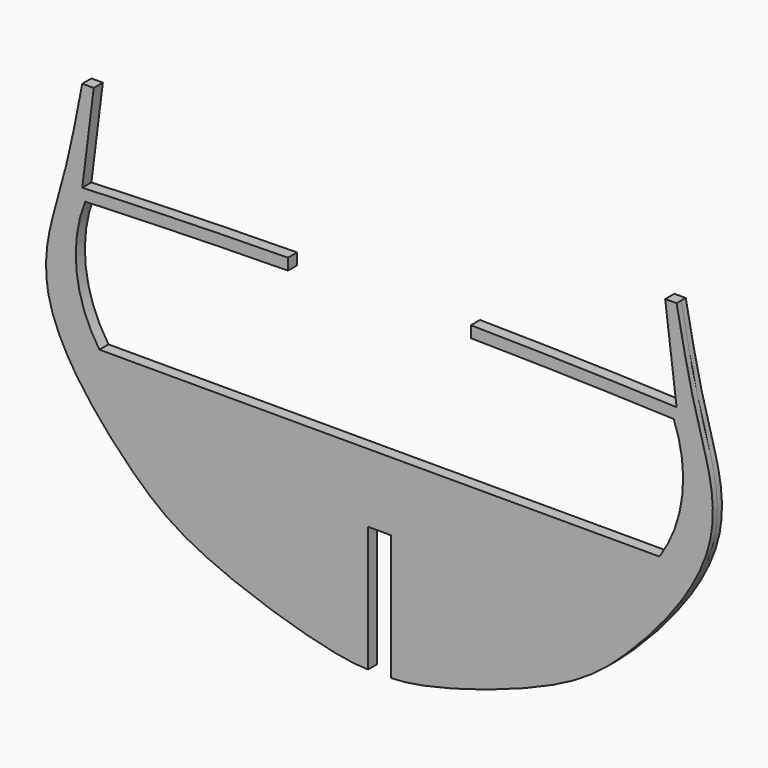
from build123d import *

# Parameters (mm, degrees)
F1_DEPTH = 1.5875
F3_DEPTH = 3.1760001


with BuildPart() as f1:
    # F0 (on Front) → F1 (new body, symmetric)
    with BuildSketch(Plane.XZ):
        with BuildLine():
            add(Edge.make_bspline(
                [(-3.175, -53.975), (-13.0116101055, -53.975), (-49.7067985219, -42.626319898), (-66.2067456609, -29.6459992922), (-78.8246268398, -16.1782839927), (-87.7060844154, -3.6129103076), (-92.94775985, 9.2896723873), (-92.6544676036, 22.4040483009), (-88.8149289504, 34.7479602908), (-85.3413838731, 48.7194354035), (-84.1372580078, 55.5637073987), (-82.55, 63.5)],
                knots=[0, 0, 0, 0, 0.1780416984, 0.3033381001, 0.4125937832, 0.5153937809, 0.6118329545, 0.7051514566, 0.7998950808, 0.8946387049, 1, 1, 1, 1], degree=3))
            Line((-3.175, -53.975), (-3.175, -19.05))
            Line((-3.175, -19.05), (0, -19.05))
            Line((0, -19.05), (3.175, -19.05))
            Line((3.175, -19.05), (3.175, -53.975))
            add(Edge.make_bspline(
                [(3.175, -53.975), (13.0116101055, -53.975), (49.7067985219, -42.626319898), (66.2067456609, -29.6459992922), (78.8246268398, -16.1782839927), (87.7060844154, -3.6129103076), (92.94775985, 9.2896723873), (92.6544676036, 22.4040483009), (88.8149289504, 34.7479602908), (85.3413838731, 48.7194354035), (84.1372580078, 55.5637073987), (82.55, 63.5)],
                knots=[0, 0, 0, 0, 0.1780416984, 0.3033381001, 0.4125937832, 0.5153937809, 0.6118329545, 0.7051514566, 0.7998950808, 0.8946387049, 1, 1, 1, 1], degree=3))
            Line((82.55, 63.5), (79.375, 63.5))
            Line((79.375, 63.5), (82.55, 38.071451412))
            ThreePointArc((82.55, 38.071451412), (0, 39.6875), (-82.55, 38.071451412))
            Line((-82.55, 38.071451412), (-79.375, 63.5))
            Line((-79.375, 63.5), (-82.55, 63.5))
        make_face()
        with BuildLine():
            Line((77.7875, 0), (0, 0))
            Line((0, 0), (-77.7875, 0))
            ThreePointArc((-77.7875, 0), (-84.1275891335, 16.9675324848), (-81.75625, 34.925))
            ThreePointArc((-81.75625, 34.925), (0, 36.5125), (81.75625, 34.925))
            ThreePointArc((81.75625, 34.925), (84.1275891335, 16.9675324848), (77.7875, 0))
        make_face(mode=Mode.SUBTRACT)
    extrude(amount=F1_DEPTH, both=True)

    # F2 (on face) → F3 (cut, through all)
    with BuildSketch(Plane.XZ.offset(1.5875)):
        with BuildLine():
            ThreePointArc((25.4, 39.534554385), (0, 39.6875), (-25.4, 39.534554385))
            Line((-25.4, 39.534554385), (-25.4, 36.3593237898))
            Line((-25.4, 36.3593237898), (0, 36.3593237898))
            Line((0, 36.3593237898), (25.4, 36.3593237898))
            Line((25.4, 36.3593237898), (25.4, 39.534554385))
        make_face()
    extrude(amount=-F3_DEPTH, mode=Mode.SUBTRACT)


solid = f1.part
